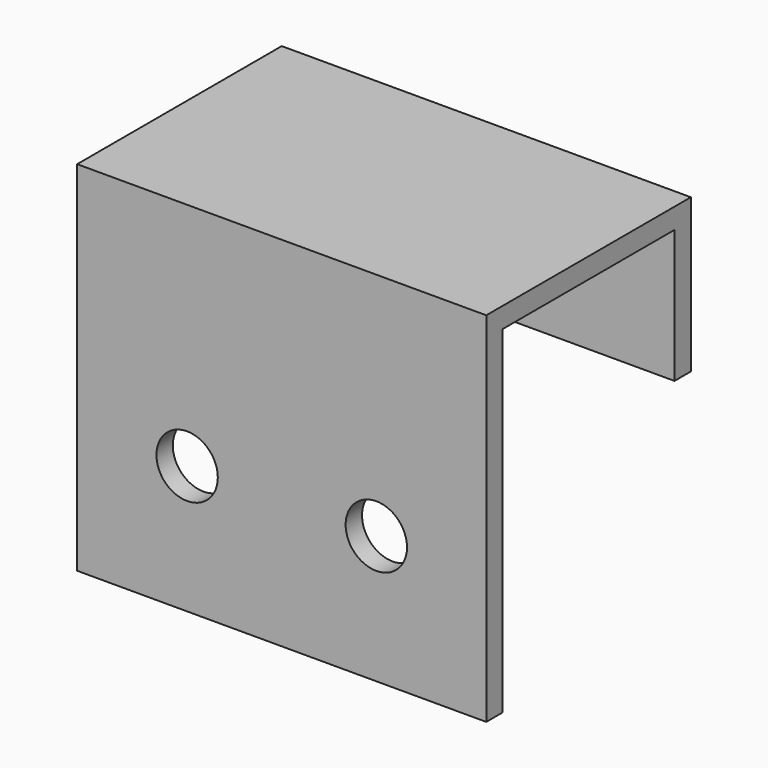
from build123d import *

# Parameters (mm, degrees)
PAD004_DEPTH = 20
SKETCH013_R  = 3
HOLE_DEPTH   = 25
HOLE_TIPS_R  = 3


with BuildPart() as part:
    # Sketch014 → Pad004 (new body, symmetric)
    with BuildSketch(Plane.YZ):
        Polygon((0, -35), (0, 0), (25, 0), (25, -15), (23, -15), (23, -2), (2, -2), (2, -35), align=None)
    extrude(amount=PAD004_DEPTH, both=True)

    # Sketch013 → Hole (cut)
    with BuildSketch(Plane.XZ):
        with Locations((-9.25, -22.5)):
            Circle(SKETCH013_R)
        with Locations((9.25, -22.5)):
            Circle(SKETCH013_R)
    extrude(amount=-HOLE_DEPTH, mode=Mode.SUBTRACT)

    # Hole tips → Hole tip 1 section 0
    with BuildSketch(Plane.XZ.offset(-25), mode=Mode.PRIVATE) as hole_tip_1_s0:
        with Locations((-9.25, -22.5)):
            Circle(HOLE_TIPS_R)
    loft([hole_tip_1_s0.sketch, Vertex(-9.25, 26.802582, -22.5)], mode=Mode.SUBTRACT)

    # Hole tips → Hole tip 2 section 0
    with BuildSketch(Plane.XZ.offset(-25), mode=Mode.PRIVATE) as hole_tip_2_s0:
        with Locations((9.25, -22.5)):
            Circle(HOLE_TIPS_R)
    loft([hole_tip_2_s0.sketch, Vertex(9.25, 26.802582, -22.5)], mode=Mode.SUBTRACT)


with BuildPart() as part_1:
    # Body009 placement: moved
    add(part.part.moved(Location((0, 83, 0))))


with BuildPart() as part_2:
    # Clone007 placement: moved
    add(part_1.part.moved(Location((0, -83, 0))))


with BuildPart() as part_3:
    # Body010 placement: moved
    add(part_2.part.moved(Location((225, 83, 450))))


solid = part_3.part
